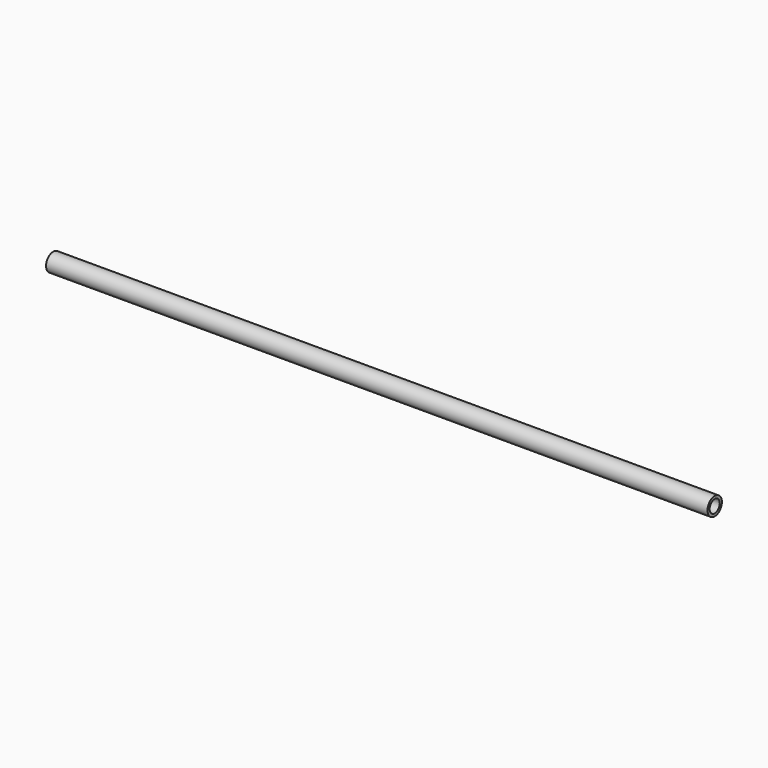
from build123d import *

# Parameters (mm, degrees)
F1_R   = 27.229401
F1_R_2 = 19.092407


with BuildPart() as f2:
    # F2: sweep along a path in F0
    with BuildLine(Plane.XZ) as f2_path:
        Line((0, 0), (2000, 0))
    # F1 (on Right) → F2 (sweep)
    with BuildSketch(Plane.YZ):
        Circle(F1_R)
        Circle(F1_R_2, mode=Mode.SUBTRACT)
    sweep(path=f2_path.line)


solid = f2.part
